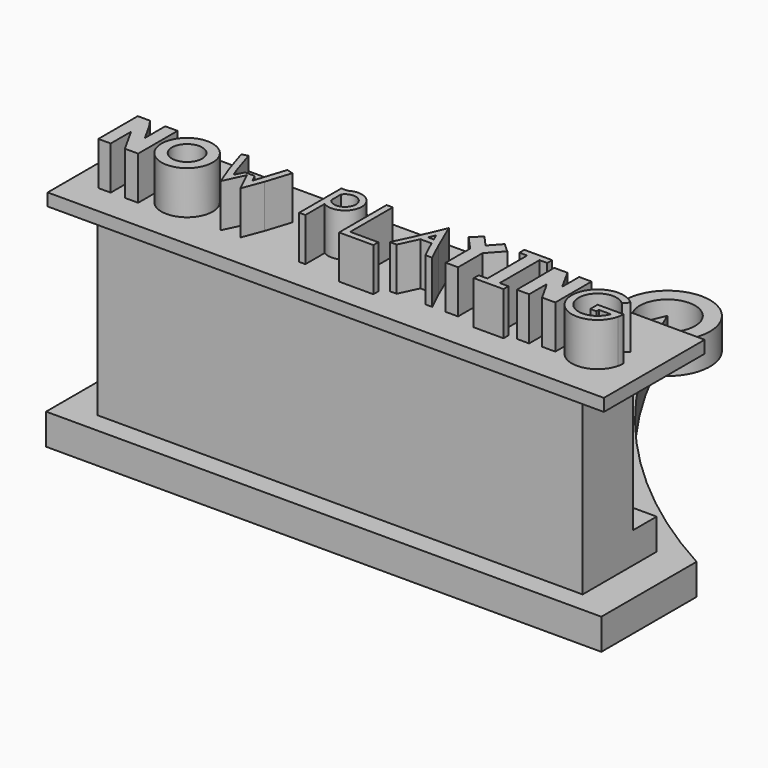
from build123d import *

# Parameters (mm, degrees)
F1_DEPTH  = 6.35
F3_DEPTH  = 6.35
F5_DEPTH  = 25.4
F7_D      = 6.7564
F7_DEPTH  = 12.7
F7_TIP    = 2.0298273432
F9_DEPTH  = 5.08
F10_W     = 99.64261204
F10_H     = 18.998793792
F11_DEPTH = 2.54
F12_R     = 5.2534292615
F12_R_2   = 3.1134110093
F13_DEPTH = 8.89


with BuildPart() as f1:
    # F0 (on Top) → F1 (new body)
    with BuildSketch(Plane.XY):
        with BuildLine():
            Line((-56.9999665022, -11.8391886353), (0, -11.8391886353))
            Line((0, -11.8391886353), (56.9999665022, -11.8391886353))
            Line((56.9999665022, -11.8391886353), (56.9999665022, 12.603007257))
            ThreePointArc((56.9999665022, 12.603007257), (25.9733436303, 36.3780469183), (3.5801271207, 68.4162692798))
            ThreePointArc((3.5801271207, 68.4162692798), (0, 85.1150162439), (-3.5801271207, 68.4162692798))
            ThreePointArc((-3.5801271207, 68.4162692798), (-25.9733436303, 36.3780469183), (-56.9999665022, 12.603007257))
            Line((-56.9999665022, 12.603007257), (-56.9999665022, -11.8391886353))
        make_face()
        with BuildLine():
            ThreePointArc((2.2622125896, 71.1828075513), (1.1022822123, 73.769792923), (0, 76.3818621635))
            ThreePointArc((0, 76.3818621635), (-1.1022822123, 73.769792923), (-2.2622125896, 71.1828075513))
            ThreePointArc((-2.2622125896, 71.1828075513), (0, 82.0517629264), (2.2622125896, 71.1828075513))
        make_face(mode=Mode.SUBTRACT)
    extrude(amount=F1_DEPTH)

    # F2 (on face) → F3 (join)
    with BuildSketch(Plane.XY.offset(6.35)):
        Polygon((0, -7.67345028), (0, 0), (0, 11.325343512), (-49.82130602, 11.325343512), (-49.82130602, -7.67345028), align=None)
        Polygon((0, 11.325343512), (0, 0), (0, -7.67345028), (49.82130602, -7.67345028), (49.82130602, 11.325343512), align=None)
    extrude(amount=F3_DEPTH)

    # F4 (on face) → F5 (join)
    with BuildSketch(Plane.XY.offset(12.7)):
        Polygon((0, -7.67345028), (0, 0), (0, 5.2618985064), (-49.82130602, 5.2618985064), (-49.82130602, -7.67345028), align=None)
        Polygon((0, 5.2618985064), (0, 0), (0, -7.67345028), (49.82130602, -7.67345028), (49.82130602, 5.2618985064), align=None)
    extrude(amount=F5_DEPTH)

    # F7
    with Locations(Plane(origin=(0, 0, 0), x_dir=(1, 0, 0), z_dir=(0, 0, -1))):
        with Locations((33.5948169231, 0), (-33.5948169231, 0)):
            Hole(F7_D / 2, depth=F7_DEPTH)
            with Locations((0, 0, -(F7_DEPTH + F7_TIP / 2))):  # 118° drill point
                Cone(0, F7_D / 2, F7_TIP, mode=Mode.SUBTRACT)

    # F8 (on face) → F9 (join)
    with BuildSketch(Plane.XY.offset(38.1)):
        Polygon((49.82130602, 11.325343512), (0, 11.325343512), (-49.82130602, 11.325343512), (-49.82130602, 5.2618985064), (49.82130602, 5.2618985064), align=None)
        Polygon((49.82130602, 5.2618985064), (-49.82130602, 5.2618985064), (-49.82130602, -7.67345028), (0, -7.67345028), (49.82130602, -7.67345028), align=None)
    extrude(amount=F9_DEPTH)

    # F10 (on face) → F11 (join)
    with BuildSketch(Plane.XY.offset(43.18)):
        Polygon((57.0974387228, 14.5591804758), (0, 14.5591804758), (-57.0974387228, 14.5591804758), (-57.0974387228, -11.3115180284), (0, -11.3115180284), (57.0974387228, -11.3115180284), align=None)
        with Locations((0, 1.825946616)):
            Rectangle(F10_W, F10_H, mode=Mode.SUBTRACT)
        with Locations((0, 1.825946616)):
            Rectangle(F10_W, F10_H)
    extrude(amount=F11_DEPTH)

    # F12 (on face) → F13 (join)
    with BuildSketch(Plane.XY.offset(45.72)):
        Polygon((8.5808153566, -3.8332685363), (10.3769853802, 0), (11.520545464, 0), (12.6641055479, 0), (14.4602755714, -3.8332685363), (15.8660151064, -3.8332685363), (14.0469819307, 0), (11.520545464, 5.8634341694), (8.9941089973, 0), (7.1750758216, -3.8332685363), align=None)
        Polygon((12.1168879583, 1.27), (10.9242029697, 1.27), (11.520545464, 2.6540106426), align=None, mode=Mode.SUBTRACT)
        Polygon((15.9370799004, 5.4188976225), (18.6398400772, 2.4412850335), (18.6398400772, -3.8332685363), (21.1798400772, -3.8332685363), (21.1798400772, 2.4412850335), (23.8826002539, 5.4188976225), (22.0018450558, 7.1260472599), (19.9098400772, 4.821299538), (17.8178350986, 7.1260472599), align=None)
        with Locations((-37.5246331096, 0)):
            Circle(F12_R)
        with Locations((-37.5246331096, 0)):
            Circle(F12_R_2, mode=Mode.SUBTRACT)
        Polygon((-49.1576491702, -5.0597838126), (-49.1576491702, 0), (-49.1576491702, 0.1703951603), (-46.2440352845, -5.0597838126), (-46.0602679443, -5.0597838126), (-43.5202679443, -5.0597838126), (-43.5202679443, 0), (-43.5202679443, 5.0597838126), (-46.0602679443, 5.0597838126), (-46.0602679443, 0), (-46.0602679443, -0.1703951603), (-48.0481869093, 3.398084528), (-49.1576491702, 5.0597838126), (-51.6976491702, 5.0597838126), (-51.6976491702, 0), (-51.6976491702, -5.0597838126), align=None)
        Polygon((-30.4608233273, 5.0550824963), (-28.8462378085, 0), (-27.2316522896, -4.2287833057), (-25.2138245851, 0), (-23.1959968805, -4.2287833057), (-21.5814113617, 0), (-19.9668258429, 5.0550824963), (-21.2886028552, 5.4772560265), (-23.3462245652, -0.964922086), (-24.0676257065, 0.5469260742), (-26.0552410036, 0.5746004754), (-26.9999829904, -1.2750737017), (-27.6364480741, 0.3864049672), (-27.6471869469, 0.4200271491), (-29.2510335929, 5.4414874634), align=None)
        with BuildLine():
            Line((-9.2688109726, -4.9615180284), (-9.2688109726, 0))
            ThreePointArc((-9.2688109726, 0), (-3.9849187402, 2.9317170847), (-9.2688109726, 5.8634341694))
            Line((-9.2688109726, 5.8634341694), (-10.5388109726, 5.8634341694))
            Line((-10.5388109726, 5.8634341694), (-10.5388109726, -4.9615180284))
            Line((-10.5388109726, -4.9615180284), (-9.2688109726, -4.9615180284))
        make_face()
        with BuildLine():
            ThreePointArc((-9.2688109726, 4.1773487671), (-5.2276091663, 2.9317170847), (-9.2688109726, 1.6860854024))
            Line((-9.2688109726, 1.6860854024), (-9.2688109726, 4.1773487671))
        make_face(mode=Mode.SUBTRACT)
        Polygon((0, -5.0356499851), (0, 0), (0, 5.8682430536), (-1.27, 5.8682430536), (-1.27, -5.0356499851), (-1.27, -6.3056499851), (0, -6.3056499851), (5.7602738962, -6.3056499851), (5.7602738962, -5.0356499851), (1.27, -5.0356499851), align=None)
        Polygon((27.2789596426, 6.2596681528), (27.2789596426, -3.9345640689), (25.489365682, -3.9345640689), (25.489365682, -5.2045640689), (28.5489596426, -5.2045640689), (31.6085536033, -5.2045640689), (31.6085536033, -3.9345640689), (29.8189596426, -3.9345640689), (29.8189596426, 6.2596681528), (31.4045827836, 6.2596681528), (31.4045827836, 7.5296681528), (28.5489596426, 7.5296681528), (25.6933365017, 7.5296681528), (25.6933365017, 6.2596681528), align=None)
        Polygon((35.9326937389, -4.0353834629), (35.9326937389, 0), (35.9283116314, 0.4862386956), (36.5847326672, -0.6176642146), (38.2620843736, -3.6311536096), (38.4455657411, -3.6311536096), (40.9855657411, -3.6311536096), (40.9855657411, 5.6661283597), (38.4455657411, 5.6661283597), (38.4455657411, 1.2884770307), (36.0522442713, 5.638557907), (35.8818776127, 5.638557907), (33.3418776127, 5.638557907), (33.3926937389, 0), (33.3926937389, -4.0353834629), align=None)
        with BuildLine():
            Line((50.4276491702, 0), (46.7712655663, 0))
            Line((46.7712655663, 0), (46.7712655663, -1.8991101533))
            Line((46.7712655663, -1.8991101533), (48.0412655663, -1.8991101533))
            Line((48.0412655663, -1.8991101533), (48.0412655663, -1.27))
            Line((48.0412655663, -1.27), (50.4594443439, -1.27))
            ThreePointArc((50.4594443439, -1.27), (42.9814431355, -0.9234763875), (49.461772222, 2.8243117093))
            Line((49.461772222, 2.8243117093), (50.4276491702, 3.852418304))
            ThreePointArc((50.4276491702, 3.852418304), (41.6742187173, -1.493446104), (51.9285291671, -1.27))
            ThreePointArc((51.9285291671, -1.27), (52.043941209, -0.6396557001), (52.0825994711, 0))
            Line((52.0825994711, 0), (50.4276491702, 0))
        make_face()
    extrude(amount=F13_DEPTH)


solid = f1.part
